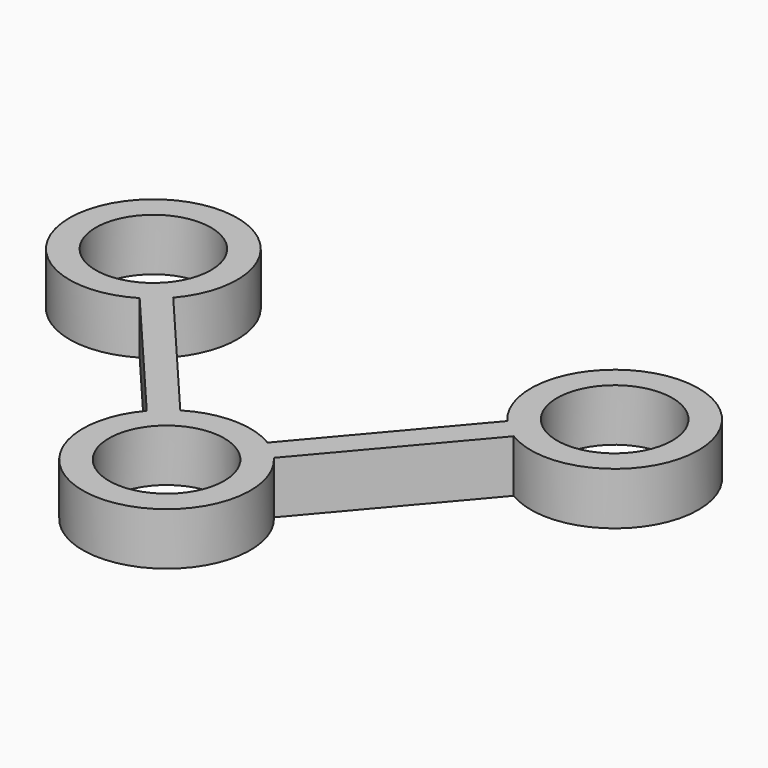
from build123d import *

# Parameters (mm, degrees)
F0_R     = 5.5
F1_DEPTH = 5


with BuildPart() as f1:
    # F0 (on Top) → F1 (new body)
    with BuildSketch(Plane.XY):
        with BuildLine():
            Line((-17.840159, 19.089536), (-6.065941, 5.21578))
            ThreePointArc((-6.065941, 5.21578), (0, -8), (6.065941, 5.21578))
            Line((6.065941, 5.21578), (17.840159, 19.089536))
            ThreePointArc((17.840159, 19.089536), (27.176471, 32.022483), (15.934059, 20.707183))
            Line((15.934059, 20.707183), (4.159841, 6.833427))
            ThreePointArc((4.159841, 6.833427), (0, 8), (-4.159841, 6.833427))
            Line((-4.159841, 6.833427), (-15.934059, 20.707183))
            ThreePointArc((-15.934059, 20.707183), (-27.176471, 32.022483), (-17.840159, 19.089536))
        make_face()
        Circle(F0_R, mode=Mode.SUBTRACT)
        with Locations((-22, 25.922963)):
            Circle(F0_R, mode=Mode.SUBTRACT)
        with Locations((22, 25.922963)):
            Circle(F0_R, mode=Mode.SUBTRACT)
    extrude(amount=F1_DEPTH)


solid = f1.part
